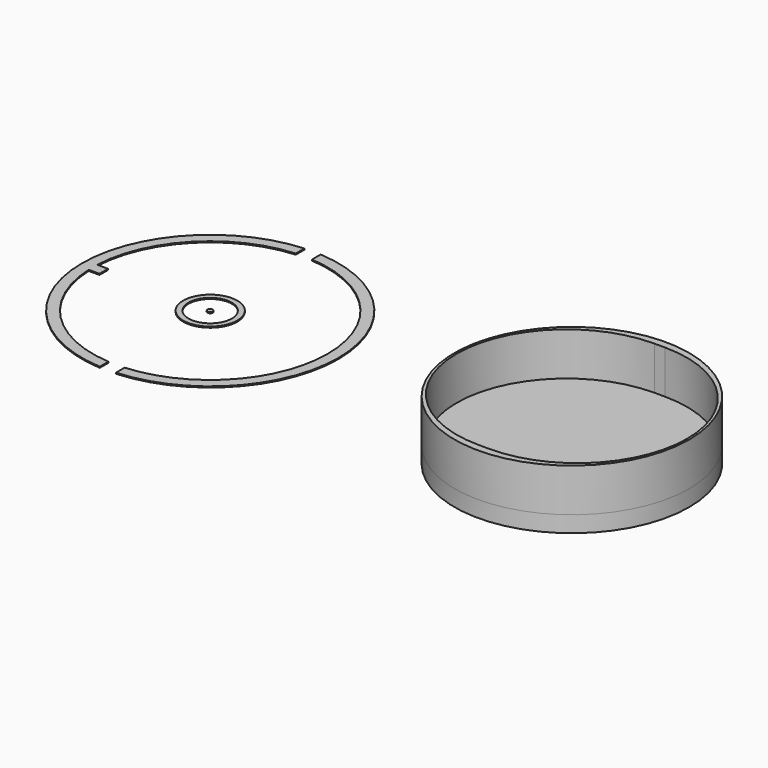
from build123d import *

# Parameters (mm, degrees)
F0_R     = 2.5
F0_R_2   = 2
F1_DEPTH = 0.1
F0_W     = 1
F0_H     = 1
F2_DEPTH = 0.1
F0_R_3   = 0.25
F3_DEPTH = 0.1
F0_R_4   = 10.85
F4_DEPTH = 1.5
F5_DEPTH = 4


with BuildPart() as f1:
    # F0 (on Top) → F1 (new body)
    with BuildSketch(Plane.XY):
        with Locations((19.679473713, 82.238227129)):
            Circle(F0_R)
        with Locations((19.679473713, 82.238227129)):
            Circle(F0_R_2, mode=Mode.SUBTRACT)
    extrude(amount=F1_DEPTH)


with BuildPart() as f2:
    # F0 (on Top) → F2 (new body)
    with BuildSketch(Plane.XY):
        with BuildLine():
            ThreePointArc((8.8410005733, 81.738227129), (8.829473713, 82.238227129), (8.8410005733, 82.738227129))
            ThreePointArc((8.8410005733, 82.738227129), (11.9193406213, 89.8212894654), (18.929473713, 93.0622744312))
            Line((18.929473713, 93.0622744312), (18.929473713, 94.0644691356))
            ThreePointArc((18.929473713, 94.0644691356), (7.829473713, 82.238227129), (18.929473713, 70.4119851223))
            Line((18.929473713, 70.4119851223), (18.929473713, 71.4141798268))
            ThreePointArc((18.929473713, 71.4141798268), (11.9193406213, 74.6551647926), (8.8410005733, 81.738227129))
        make_face()
        with Locations((9.3410005733, 82.238227129)):
            Rectangle(F0_W, F0_H)
        with BuildLine():
            Line((8.8410005733, 81.738227129), (8.8410005733, 82.738227129))
            ThreePointArc((8.8410005733, 82.738227129), (8.829473713, 82.238227129), (8.8410005733, 81.738227129))
        make_face()
    extrude(amount=F2_DEPTH)


with BuildPart() as f2b:
    # F0 (on Top) → F2, piece 2 (new body)
    with BuildSketch(Plane.XY):
        with BuildLine():
            Line((20.429473713, 94.0644691356), (20.429473713, 93.0622744312))
            ThreePointArc((20.429473713, 93.0622744312), (27.6123168351, 89.6404227492), (30.529473713, 82.238227129))
            ThreePointArc((30.529473713, 82.238227129), (27.6123168351, 74.8360315088), (20.429473713, 71.4141798268))
            Line((20.429473713, 71.4141798268), (20.429473713, 70.4119851223))
            ThreePointArc((20.429473713, 70.4119851223), (28.3197862074, 74.1285107344), (31.529473713, 82.238227129))
            ThreePointArc((31.529473713, 82.238227129), (28.3197862074, 90.3479435235), (20.429473713, 94.0644691356))
        make_face()
    extrude(amount=F2_DEPTH)


with BuildPart() as f3:
    # F0 (on Top) → F3 (new body)
    with BuildSketch(Plane.XY):
        with Locations((19.679473713, 82.238227129)):
            Circle(F0_R_3)
    extrude(amount=F3_DEPTH)


with BuildPart() as f4:
    # F0 (on Top) → F4 (new body)
    with BuildSketch(Plane.XY):
        with Locations((53.1129379869, 82.238227129)):
            Circle(F0_R_4)
        with BuildLine():
            Line((53.6129379869, 72.088227129), (52.6129379869, 72.088227129))
            ThreePointArc((52.6129379869, 72.088227129), (42.4629379869, 82.238227129), (52.6129379869, 92.388227129))
            Line((52.6129379869, 92.388227129), (53.6129379869, 92.388227129))
            ThreePointArc((53.6129379869, 92.388227129), (63.7629379869, 82.238227129), (53.6129379869, 72.088227129))
        make_face(mode=Mode.SUBTRACT)
        with BuildLine():
            ThreePointArc((52.6129379869, 92.388227129), (42.4629379869, 82.238227129), (52.6129379869, 72.088227129))
            Line((52.6129379869, 72.088227129), (53.6129379869, 72.088227129))
            ThreePointArc((53.6129379869, 72.088227129), (63.7629379869, 82.238227129), (53.6129379869, 92.388227129))
            Line((53.6129379869, 92.388227129), (52.6129379869, 92.388227129))
        make_face()
    extrude(amount=-F4_DEPTH)

    # F0 (on Top) → F5 (join)
    with BuildSketch(Plane.XY):
        with Locations((53.1129379869, 82.238227129)):
            Circle(F0_R_4)
        with BuildLine():
            Line((53.6129379869, 72.088227129), (52.6129379869, 72.088227129))
            ThreePointArc((52.6129379869, 72.088227129), (42.4629379869, 82.238227129), (52.6129379869, 92.388227129))
            Line((52.6129379869, 92.388227129), (53.6129379869, 92.388227129))
            ThreePointArc((53.6129379869, 92.388227129), (63.7629379869, 82.238227129), (53.6129379869, 72.088227129))
        make_face(mode=Mode.SUBTRACT)
    extrude(amount=F5_DEPTH)


solid = Compound([f1.part, f2.part, f2b.part, f3.part, f4.part])
